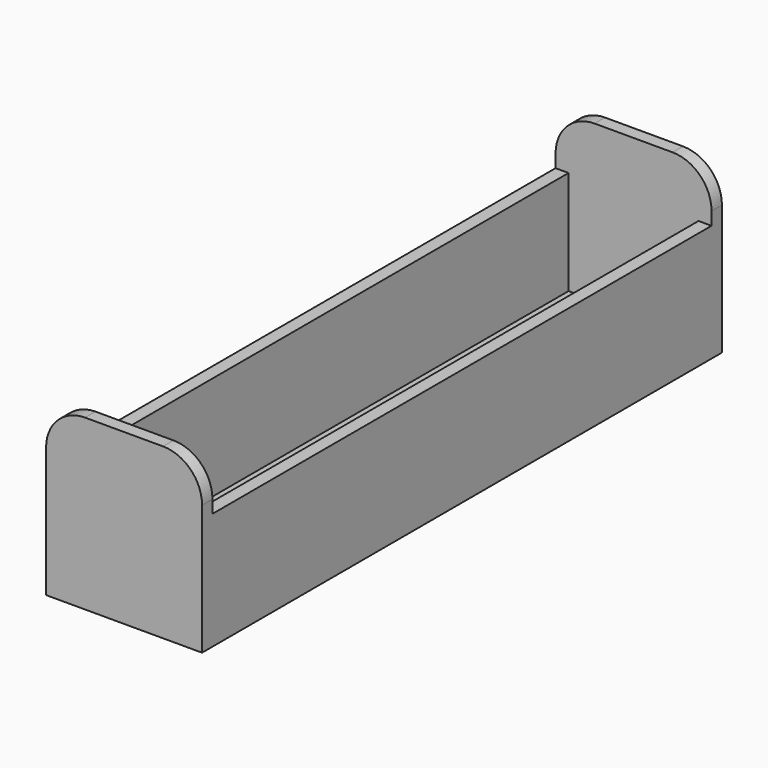
from build123d import *

# Parameters (mm, degrees)
BOX002_W     = 12
BOX002_H     = 48
BOX002_DEPTH = 4
BOX001_W     = 10
BOX001_H     = 48
BOX001_DEPTH = 12
BOX_W        = 12
BOX_H        = 50
BOX_DEPTH    = 13
FILLET_R     = 3


with BuildPart() as kostka002:
    # Box002 → Box002 (new body)
    with BuildSketch(Plane(origin=(0, 1, 9), x_dir=(1, 0, 0), z_dir=(0, 0, 1))):
        with Locations((6, 24)):
            Rectangle(BOX002_W, BOX002_H)
    extrude(amount=BOX002_DEPTH)


with BuildPart() as kostka001:
    # Box001 → Box001 (new body)
    with BuildSketch(Plane(origin=(1, 1, 1), x_dir=(1, 0, 0), z_dir=(0, 0, 1))):
        with Locations((5, 24)):
            Rectangle(BOX001_W, BOX001_H)
    extrude(amount=BOX001_DEPTH)


with BuildPart() as fillet_body:
    # Box → Box (new body)
    with BuildSketch(Plane.XY):
        with Locations((6, 25)):
            Rectangle(BOX_W, BOX_H)
    extrude(amount=BOX_DEPTH)

    # Cut: cut Kostka001
    add(kostka001.part, mode=Mode.SUBTRACT)

    # Cut001: cut Kostka002
    add(kostka002.part, mode=Mode.SUBTRACT)

    # Fillet
    fillet_edges = [fillet_body.edges().sort_by_distance(p)[0] for p in [
        (0, 0.5, 13),
        (0, 49.5, 13),
        (12, 0.5, 13),
        (12, 49.5, 13),
    ]]
    fillet(fillet_edges, radius=FILLET_R)


solid = fillet_body.part
